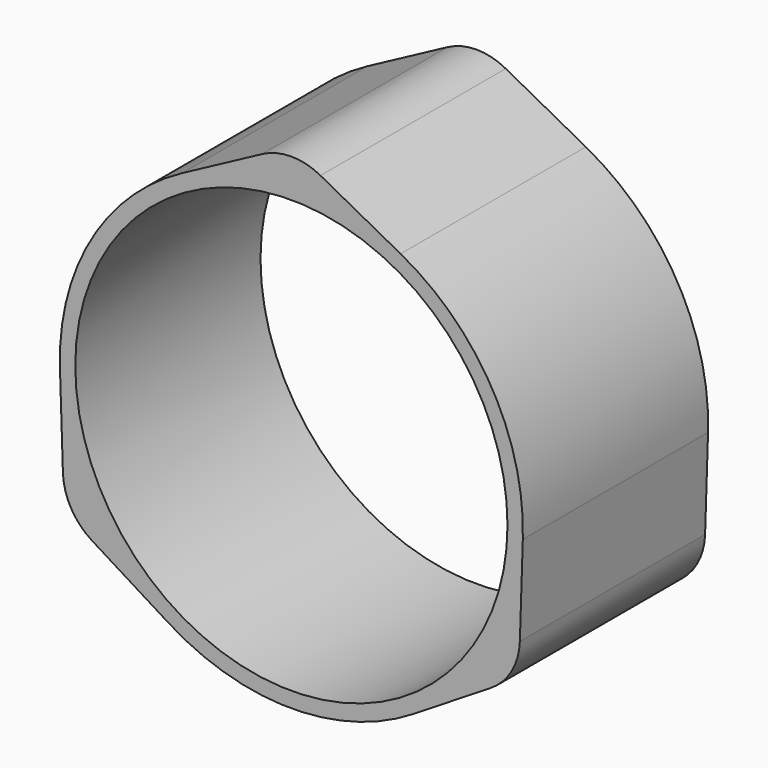
from build123d import *

# Parameters (mm, degrees)
F0_R     = 28
F1_DEPTH = 30


with BuildPart() as f1:
    # F0 (on Front) → F1 (new body)
    with BuildSketch(Plane.XZ):
        with BuildLine():
            Line((-3.773346, 32.003853), (-14.150047, 26.453283))
            ThreePointArc((-14.150047, 26.453283), (-25.980762, 15), (-29.984238, -0.972341))
            Line((-29.984238, -0.972341), (-29.602823, -12.734113))
            ThreePointArc((-29.602823, -12.734113), (-28.535229, -16.474822), (-25.829477, -19.26974))
            Line((-25.829477, -19.26974), (-15.834192, -25.480941))
            ThreePointArc((-15.834192, -25.480941), (0, -30), (15.834192, -25.480941))
            Line((15.834192, -25.480941), (25.829477, -19.26974))
            ThreePointArc((25.829477, -19.26974), (28.535229, -16.474822), (29.602823, -12.734113))
            Line((29.602823, -12.734113), (29.984238, -0.972341))
            ThreePointArc((29.984238, -0.972341), (25.980762, 15), (14.150047, 26.453283))
            Line((14.150047, 26.453283), (3.773346, 32.003853))
            ThreePointArc((3.773346, 32.003853), (0, 32.949644), (-3.773346, 32.003853))
        make_face()
        Circle(F0_R, mode=Mode.SUBTRACT)
    extrude(amount=F1_DEPTH)


solid = f1.part
